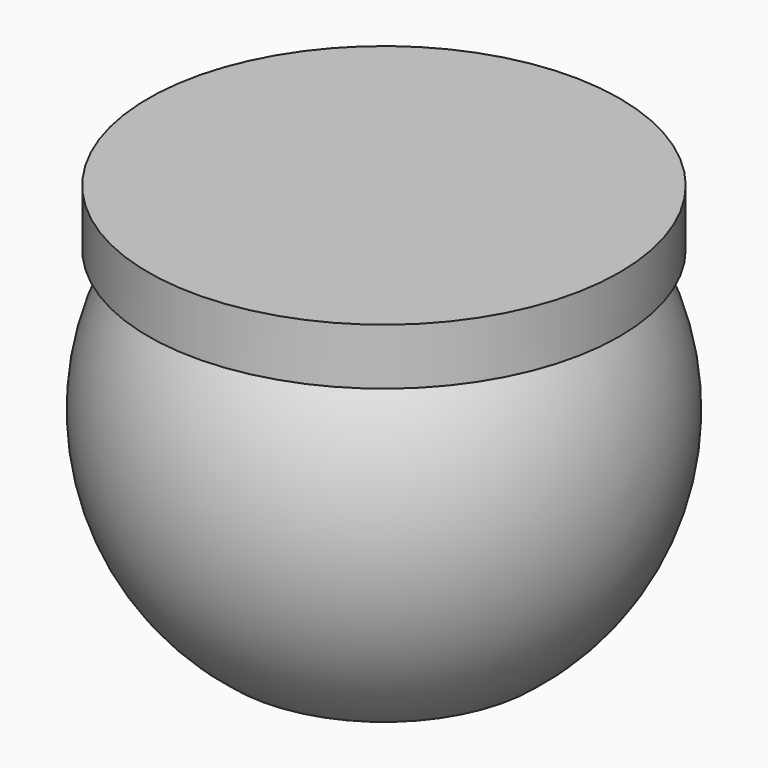
from build123d import *

# Parameters (mm, degrees)
F0_W   = 1.1267525466
F0_H   = 2
F0_W_2 = 7.2415467961


with BuildPart() as f1:
    # F0 (on Front) → F1 (revolve)
    with BuildSketch(Plane.XZ):
        with BuildLine():
            Line((0, 7), (0, 0))
            Line((0, 0), (5.3329166504, 0))
            ThreePointArc((5.3329166504, 0), (8.6907584676, 5.6177130333), (7.2415467961, 12))
            Line((7.2415467961, 12), (0, 12))
            Line((0, 12), (0, 7))
        make_face()
        with Locations((7.8049230694, 13)):
            Rectangle(F0_W, F0_H)
        with Locations((3.620773398, 13)):
            Rectangle(F0_W_2, F0_H)
    revolve(axis=Axis((0, 0, 10.5), (0, 0, 1)))


solid = f1.part
